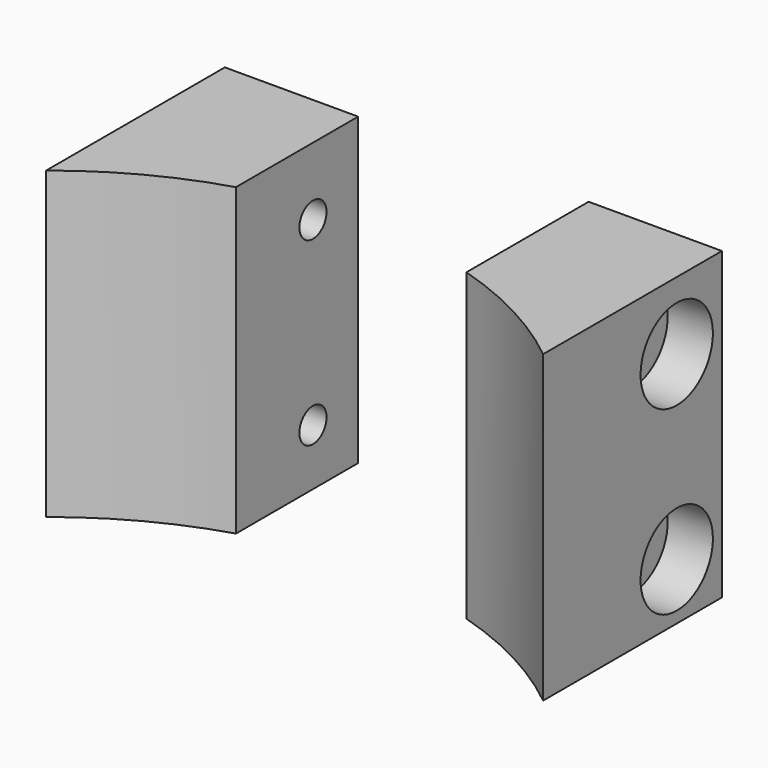
from build123d import *

# Parameters (mm, degrees)
CYLINDER1796_R     = 1.5
CYLINDER1796_DEPTH = 64
CYLINDER1795_R     = 1.5
CYLINDER1795_DEPTH = 64
CYLINDER1800_R     = 4
CYLINDER1800_DEPTH = 16
CYLINDER1799_R     = 4
CYLINDER1799_DEPTH = 16
CYLINDER1798_R     = 4
CYLINDER1798_DEPTH = 16
CYLINDER1797_R     = 4
CYLINDER1797_DEPTH = 16
CYLINDER1793_R     = 35
CYLINDER1793_DEPTH = 32
BOX712_W           = 20.4
BOX712_H           = 27
BOX712_DEPTH       = 28
BOX711_W           = 44
BOX711_H           = 32
BOX711_DEPTH       = 27


with BuildPart() as obj1:
    # Cylinder1796 → Cylinder1796 (new body)
    with BuildSketch(Plane(origin=(-32, 42, 17), x_dir=(0, 0, -1), z_dir=(1, 0, 0))):
        Circle(CYLINDER1796_R)
    extrude(amount=CYLINDER1796_DEPTH)


with BuildPart() as compound891:
    # Cylinder1795 → Cylinder1795 (new body)
    with BuildSketch(Plane(origin=(-32, 42, 1), x_dir=(0, 0, -1), z_dir=(1, 0, 0))):
        Circle(CYLINDER1795_R)
    extrude(amount=CYLINDER1795_DEPTH)

    # Compound891: union obj1
    add(obj1.part)


with BuildPart() as obj2:
    # Cylinder1800 → Cylinder1800 (new body)
    with BuildSketch(Plane(origin=(18, 42, 17), x_dir=(0, 0, -1), z_dir=(1, 0, 0))):
        Circle(CYLINDER1800_R)
    extrude(amount=CYLINDER1800_DEPTH)


with BuildPart() as obj3:
    # Cylinder1799 → Cylinder1799 (new body)
    with BuildSketch(Plane(origin=(18, 42, 1), x_dir=(0, 0, -1), z_dir=(1, 0, 0))):
        Circle(CYLINDER1799_R)
    extrude(amount=CYLINDER1799_DEPTH)


with BuildPart() as obj4:
    # Cylinder1798 → Cylinder1798 (new body)
    with BuildSketch(Plane(origin=(-34, 42, 17), x_dir=(0, 0, -1), z_dir=(1, 0, 0))):
        Circle(CYLINDER1798_R)
    extrude(amount=CYLINDER1798_DEPTH)


with BuildPart() as compound892:
    # Cylinder1797 → Cylinder1797 (new body)
    with BuildSketch(Plane(origin=(-34, 42, 1), x_dir=(0, 0, -1), z_dir=(1, 0, 0))):
        Circle(CYLINDER1797_R)
    extrude(amount=CYLINDER1797_DEPTH)

    # Compound892: union obj2, obj3, obj4
    add(obj2.part)
    add(obj3.part)
    add(obj4.part)


with BuildPart() as obj5:
    # Cylinder1793 → Cylinder1793 (new body)
    with BuildSketch(Plane.XY.offset(-3)):
        Circle(CYLINDER1793_R)
    extrude(amount=CYLINDER1793_DEPTH)


with BuildPart() as krychle712:
    # Box712 → Box712 (new body)
    with BuildSketch(Plane(origin=(-10.2, 20, -3), x_dir=(1, 0, 0), z_dir=(0, 0, 1))):
        with Locations((10.2, 13.5)):
            Rectangle(BOX712_W, BOX712_H)
    extrude(amount=BOX712_DEPTH)


with BuildPart() as cut529:
    # Box711 → Box711 (new body)
    with BuildSketch(Plane(origin=(-22, 15, -3), x_dir=(1, 0, 0), z_dir=(0, 0, 1))):
        with Locations((22, 16)):
            Rectangle(BOX711_W, BOX711_H)
    extrude(amount=BOX711_DEPTH)

    # Cut524: cut Krychle712
    add(krychle712.part, mode=Mode.SUBTRACT)

    # Cut527: cut obj5
    add(obj5.part, mode=Mode.SUBTRACT)


with BuildPart() as cut529_1:
    # Cut527 placement: moved
    add(cut529.part.moved(Location((0, 0, -1))))

    # Cut528: cut Compound892
    add(compound892.part, mode=Mode.SUBTRACT)

    # Cut529: cut Compound891
    add(compound891.part, mode=Mode.SUBTRACT)


solid = cut529_1.part
